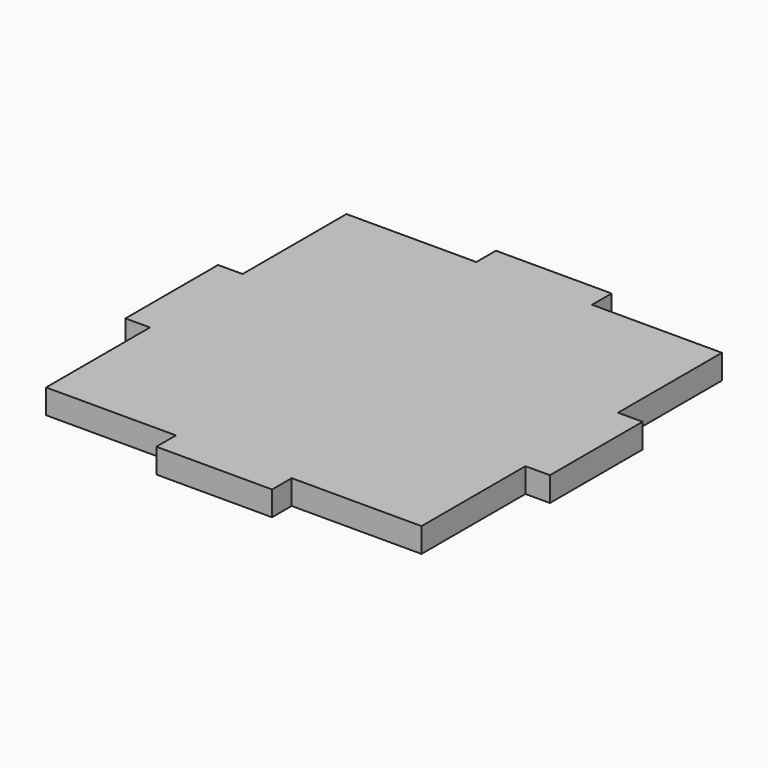
from build123d import *

# Parameters (mm, degrees)
F1_W     = 48.65
F1_H     = 48.65
F2_DEPTH = 3.175
F3_W     = 3.175
F3_H     = 15
F3_W_2   = 15
F3_H_2   = 3.175
F4_DEPTH = 3.175


with BuildPart() as f2:
    # F1 (on Top) → F2 (new body)
    with BuildSketch(Plane.XY):
        Rectangle(F1_W, F1_H)
    extrude(amount=F2_DEPTH)

    # F3 (on face) → F4 (join, through all)
    with BuildSketch(Plane.XY.offset(3.175)):
        with Locations((-25.9125, 0)):
            Rectangle(F3_W, F3_H)
        with Locations((0, 25.9125)):
            Rectangle(F3_W_2, F3_H_2)
        with Locations((0, -25.9125)):
            Rectangle(F3_W_2, F3_H_2)
        with Locations((25.9125, 0)):
            Rectangle(F3_W, F3_H)
    extrude(amount=-F4_DEPTH)


solid = f2.part
